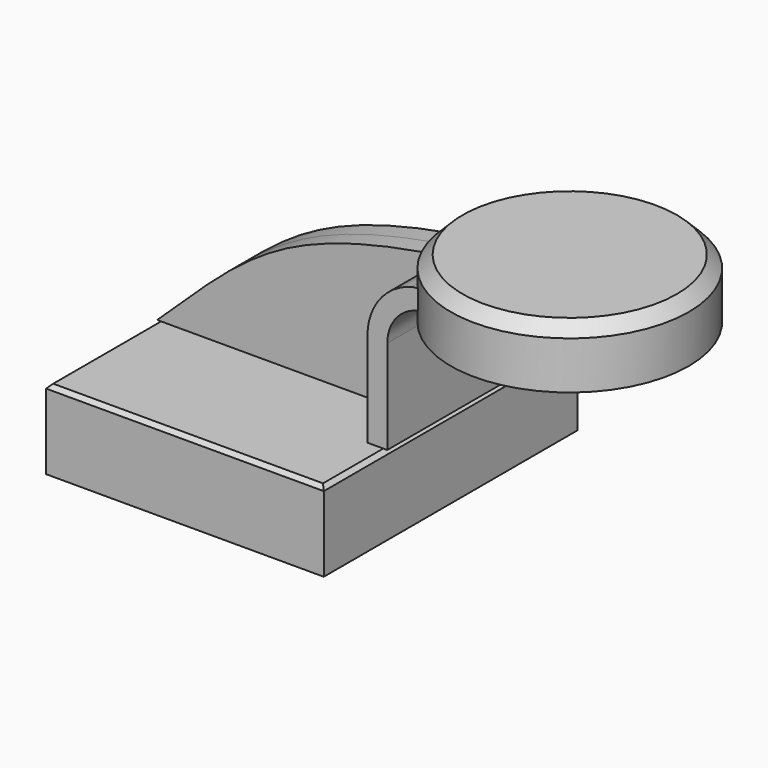
from build123d import *

# Parameters (mm, degrees)
F1_DEPTH = 40
F0_W     = 10
F0_H     = 5
F2_DEPTH = 20
F3_DEPTH = 5
F5_SIZE  = 1
F6_SIZE  = 3
F7_R     = 15.6062150544
F8_DEPTH = 82.8


with BuildPart() as f1:
    # F0 (on Front) → F1 (new body, symmetric)
    with BuildSketch(Plane.XZ):
        Polygon((-35, -10), (35, -10), (35, 10), (30, 10), (-35, 10), align=None)
    extrude(amount=F1_DEPTH, both=True)

    # F5
    f5_edges = [f1.edges().sort_by_distance(p)[0] for p in [
        (-35, 0, 10),
        (0, -40, 10),
        (35, 0, 10),
        (0, 40, 10),
    ]]
    chamfer(f5_edges, length=F5_SIZE)

    # F7 (on Top) → F8 (cut)
    with BuildSketch(Plane.XY):
        with Locations((64.8903474212, 0)):
            Circle(F7_R)
    extrude(amount=-F8_DEPTH, mode=Mode.SUBTRACT)


with BuildPart() as f2:
    # F0 (on Front) → F2 (new body, symmetric)
    with BuildSketch(Plane.XZ):
        with BuildLine():
            Line((30, 10), (35, 10))
            Line((35, 10), (35, 33.6980518011))
            ThreePointArc((35, 33.6980518011), (37.9289321881, 40.769119613), (45, 43.6980518011))
            Line((45, 43.6980518011), (55, 43.6980518011))
            Line((55, 43.6980518011), (55, 48.6980518011))
            Line((55, 48.6980518011), (45, 48.6980518011))
            add(Edge.make_bspline(
                [(41.2270816212, 48.2158025534), (42.4571708207, 48.3799907814), (43.7144630307, 48.5406946478), (45, 48.6980518011)],
                knots=[86.4847858943, 86.4847858943, 86.4847858943, 86.4847858943, 88.8681000877, 88.8681000877, 88.8681000877, 88.8681000877], degree=3))
            ThreePointArc((41.2270816212, 48.2158025534), (33.1342135599, 42.8742771775), (30, 33.6980518011))
            Line((30, 33.6980518011), (30, 10))
        make_face()
        with Locations((60, 46.1980518011)):
            Rectangle(F0_W, F0_H)
    extrude(amount=F2_DEPTH, both=True)


with BuildPart() as f3:
    # F0 (on Front) → F3 (new body, symmetric)
    with BuildSketch(Plane.XZ):
        with BuildLine():
            add(Edge.make_bspline(
                [(-35, 10), (-12.2262453231, 31.711628752), (-3.4099206471, 42.2578034865), (41.2270816212, 48.2158025534)],
                knots=[0, 0, 0, 0, 86.4847858943, 86.4847858943, 86.4847858943, 86.4847858943], degree=3))
            Line((-35, 10), (30, 10))
            Line((30, 10), (30, 33.6980518011))
            ThreePointArc((30, 33.6980518011), (33.1342135599, 42.8742771775), (41.2270816212, 48.2158025534))
        make_face()
    extrude(amount=F3_DEPTH, both=True)


with BuildPart() as f4:
    # F0 (on Front) → F4 (revolve)
    with BuildSketch(Plane.XZ):
        Polygon((65, 48.6980518011), (65, 43.6980518011), (65, 40), (95, 40), (95, 55), (65, 55), align=None)
    revolve(axis=Axis((65, 0, 47.5), (0, 0, 1)))

    # F6
    f6_edges = [f4.edges().sort_by_distance(p)[0] for p in [
        (35, 0, 55),
    ]]
    chamfer(f6_edges, length=F6_SIZE)


solid = Compound([f1.part, f2.part, f3.part, f4.part])
